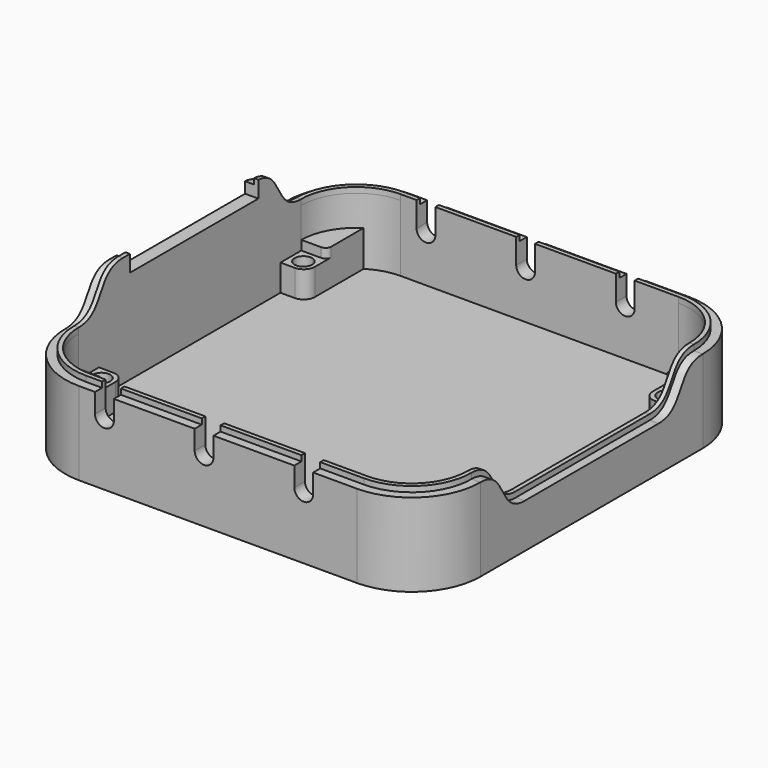
from build123d import *

# Parameters (mm, degrees)
SKETCH_W        = 75
SKETCH_H        = 75
PAD_DEPTH       = 15
SKETCH001_W     = 70.2
SKETCH001_H     = 70.2
POCKET_DEPTH    = 12
SKETCH002_W     = 4.6
SKETCH002_H     = 4.6
PAD001_DEPTH    = 4.8
SKETCH003_R     = 1.6
POCKET001_DEPTH = 7.801
SKETCH004_W     = 4.6
SKETCH004_H     = 10
PAD002_DEPTH    = 6.5
FILLET_R        = 10
FILLET001_R     = 12.4
PAD003_DEPTH    = 1
POCKET002_DEPTH = 75.001
PAD004_DEPTH    = 1.6
FILLET002_R     = 2
SKETCH008_W     = 4.6
SKETCH008_H     = 0.1
POCKET003_DEPTH = 1.7
FILLET003_R     = 1
POCKET004_DEPTH = 2.4
POCKET005_DEPTH = 1.6
PAD005_DEPTH    = 0.8
SKETCH012_W     = 29
SKETCH012_H     = 3
POCKET006_DEPTH = 2.4


with BuildPart() as part:
    # Sketch → Pad (new body)
    with BuildSketch(Plane.XY):
        with Locations((37.5, 37.5)):
            Rectangle(SKETCH_W, SKETCH_H)
    extrude(amount=PAD_DEPTH)

    # Sketch001 (on Face6 of Pad) → Pocket (cut)
    with BuildSketch(Plane.XY.offset(15)):
        with Locations((37.5, 37.5)):
            Rectangle(SKETCH001_W, SKETCH001_H)
    extrude(amount=-POCKET_DEPTH, mode=Mode.SUBTRACT)

    # Sketch002 (on Face11 of Pocket) → Pad001 (join)
    with BuildSketch(Plane.XY.offset(3)):
        with Locations((4.7, 60.3)):
            Rectangle(SKETCH002_W, SKETCH002_H)
        with Locations((70.3, 60.3)):
            Rectangle(SKETCH002_W, SKETCH002_H)
        with Locations((70.3, 14.7)):
            Rectangle(SKETCH002_W, SKETCH002_H)
        with Locations((4.7, 14.7)):
            Rectangle(SKETCH002_W, SKETCH002_H)
    extrude(amount=PAD001_DEPTH)

    # Sketch003 (on Face16 of Pad001) → Pocket001 (cut, through all)
    with BuildSketch(Plane.XY.offset(7.8)):
        with Locations((4.7, 60.3)):
            Circle(SKETCH003_R)
        with Locations((4.7, 14.7)):
            Circle(SKETCH003_R)
        with Locations((70.3, 14.7)):
            Circle(SKETCH003_R)
        with Locations((70.3, 60.3)):
            Circle(SKETCH003_R)
    extrude(amount=-POCKET001_DEPTH, mode=Mode.SUBTRACT)

    # Sketch004 (on Face19 of Pocket001) → Pad002 (join)
    with BuildSketch(Plane.XY.offset(3)):
        with Locations((70.3, 7.4)):
            Rectangle(SKETCH004_W, SKETCH004_H)
        with Locations((70.3, 67.6)):
            Rectangle(SKETCH004_W, SKETCH004_H)
        with Locations((4.7, 67.6)):
            Rectangle(SKETCH004_W, SKETCH004_H)
        with Locations((4.7, 7.4)):
            Rectangle(SKETCH004_W, SKETCH004_H)
    extrude(amount=PAD002_DEPTH)

    # Fillet
    fillet_edges = [part.edges().sort_by_distance(p)[0] for p in [
        (2.4, 72.6, 12.25),
        (72.6, 72.6, 12.25),
        (72.6, 2.4, 12.25),
        (2.4, 2.4, 12.25),
    ]]
    fillet(fillet_edges, radius=FILLET_R)

    # Fillet001
    fillet001_edges = [part.edges().sort_by_distance(p)[0] for p in [
        (75, 0, 7.5),
        (0, 75, 7.5),
        (0, 0, 7.5),
        (75, 75, 7.5),
    ]]
    fillet(fillet001_edges, radius=FILLET001_R)

    # Sketch005 (on Face1 of Fillet001) → Pad003 (join)
    with BuildSketch(Plane.XY.offset(15)):
        with BuildLine():
            Line((1.6, 62.6), (1.6, 12.4))
            ThreePointArc((1.6, 12.4), (4.763247, 4.763247), (12.4, 1.6))
            Line((12.4, 1.6), (62.6, 1.6))
            ThreePointArc((62.6, 1.6), (70.236753, 4.763247), (73.4, 12.4))
            Line((73.4, 12.4), (73.4, 62.6))
            ThreePointArc((73.4, 62.6), (70.236753, 70.236753), (62.6, 73.4))
            Line((62.6, 73.4), (12.4, 73.4))
            ThreePointArc((12.4, 73.4), (4.763247, 70.236753), (1.6, 62.6))
        make_face()
        with BuildLine():
            Line((2.4, 62.6), (2.4, 12.4))
            ThreePointArc((2.4, 12.4), (5.328932, 5.328932), (12.4, 2.4))
            Line((12.4, 2.4), (62.6, 2.4))
            ThreePointArc((62.6, 2.4), (69.671068, 5.328932), (72.6, 12.4))
            Line((72.6, 12.4), (72.6, 62.6))
            ThreePointArc((72.6, 62.6), (69.671068, 69.671068), (62.6, 72.6))
            Line((62.6, 72.6), (12.4, 72.6))
            ThreePointArc((12.4, 72.6), (5.328932, 69.671068), (2.4, 62.6))
        make_face(mode=Mode.SUBTRACT)
    extrude(amount=PAD003_DEPTH)

    # Sketch006 → Pocket002 (cut, through all)
    with BuildSketch(Plane.XZ):
        with BuildLine():
            ThreePointArc((18.7, 16), (17, 17.7), (15.3, 16))
            Line((15.3, 16), (15.3, 11.5))
            ThreePointArc((15.3, 11.5), (17, 9.8), (18.7, 11.5))
            Line((18.7, 16), (18.7, 11.5))
        make_face()
        with BuildLine():
            ThreePointArc((36.7, 16), (35, 17.7), (33.3, 16))
            Line((33.3, 16), (33.3, 11.5))
            ThreePointArc((33.3, 11.5), (35, 9.8), (36.7, 11.5))
            Line((36.7, 16), (36.7, 11.5))
        make_face()
        with BuildLine():
            ThreePointArc((54.7, 16), (53, 17.7), (51.3, 16))
            Line((51.3, 16), (51.3, 11.5))
            ThreePointArc((51.3, 11.5), (53, 9.8), (54.7, 11.5))
            Line((54.7, 16), (54.7, 11.5))
        make_face()
    extrude(amount=-POCKET002_DEPTH, mode=Mode.SUBTRACT)

    # Sketch007 → Pad004 (join)
    with BuildSketch(Plane.YZ):
        with BuildLine():
            add(Edge.make_bspline(
                [(62.6, 15), (59.6, 15), (57.6, 18.5), (55.6, 22), (52.6, 22)],
                knots=[0, 0, 0, 0, 0.5, 1, 1, 1, 1], degree=3))
            Line((52.6, 22), (22.4, 22))
            add(Edge.make_bspline(
                [(12.4, 15), (15.4, 15), (17.4, 18.5), (19.4, 22), (22.4, 22)],
                knots=[0, 0, 0, 0, 0.5, 1, 1, 1, 1], degree=3))
            Line((12.4, 15), (62.6, 15))
        make_face()
    extrude(amount=PAD004_DEPTH)

    # Fillet002
    fillet002_edges = [part.edges().sort_by_distance(p)[0] for p in [
        (7, 58, 5.4),
        (68, 58, 5.4),
        (68, 17, 5.4),
        (7, 17, 5.4),
    ]]
    fillet(fillet002_edges, radius=FILLET002_R)

    # Sketch008 (on Face40 of Fillet002) → Pocket003 (cut)
    with BuildSketch(Plane.XY.offset(9.5)):
        with Locations((4.7, 62.65)):
            Rectangle(SKETCH008_W, SKETCH008_H)
        with Locations((70.3, 62.65)):
            Rectangle(SKETCH008_W, SKETCH008_H)
        with Locations((70.3, 12.35)):
            Rectangle(SKETCH008_W, SKETCH008_H)
        with Locations((4.7, 12.35)):
            Rectangle(SKETCH008_W, SKETCH008_H)
    extrude(amount=-POCKET003_DEPTH, mode=Mode.SUBTRACT)

    # Fillet003
    fillet003_edges = [part.edges().sort_by_distance(p)[0] for p in [
        (68, 62.7, 8.65),
        (68, 12.3, 8.65),
        (7, 12.3, 8.65),
        (7, 62.7, 8.65),
    ]]
    fillet(fillet003_edges, radius=FILLET003_R)

    # Sketch009 (on Face92 of Fillet003) → Pocket004 (cut)
    with BuildSketch(Plane.YZ.offset(75)):
        with BuildLine():
            add(Edge.make_bspline(
                [(12.4, 16), (15.4, 16), (17.4, 12.5), (19.4, 9), (22.4, 9)],
                knots=[0, 0, 0, 0, 0.5, 1, 1, 1, 1], degree=3))
            Line((22.4, 9), (52.6, 9))
            add(Edge.make_bspline(
                [(62.6, 16), (59.6, 16), (57.6, 12.5), (55.6, 9), (52.6, 9)],
                knots=[0, 0, 0, 0, 0.5, 1, 1, 1, 1], degree=3))
            Line((62.6, 16), (12.4, 16))
        make_face()
    extrude(amount=-POCKET004_DEPTH, mode=Mode.SUBTRACT)

    # Sketch010 (on Face90 of Pocket004) → Pocket005 (cut)
    with BuildSketch(Plane.YZ.offset(75)):
        with BuildLine():
            add(Edge.make_bspline(
                [(12.4, 15), (15.4, 15), (17.4, 11.5), (19.4, 8), (22.4, 8)],
                knots=[0, 0, 0, 0, 0.5, 1, 1, 1, 1], degree=3))
            Line((12.4, 15), (12.4, 16))
            Line((12.4, 16), (62.6, 16))
            Line((62.6, 16), (62.6, 15))
            add(Edge.make_bspline(
                [(52.6, 8), (55.6, 8), (57.6, 11.5), (59.6, 15), (62.6, 15)],
                knots=[0, 0, 0, 0, 0.5, 1, 1, 1, 1], degree=3))
            Line((52.6, 8), (22.4, 8))
        make_face()
    extrude(amount=-POCKET005_DEPTH, mode=Mode.SUBTRACT)

    # Sketch011 (on Face23 of Pocket005) → Pad005 (join)
    with BuildSketch(Plane.YZ.offset(2.4)):
        with BuildLine():
            Line((62.6, 16), (12.4, 16))
            add(Edge.make_bspline(
                [(12.4, 16), (15.4, 16), (17.4, 19.5), (19.4, 23), (22.4, 23)],
                knots=[0, 0, 0, 0, 0.5, 1, 1, 1, 1], degree=3))
            Line((22.4, 23), (52.6, 23))
            add(Edge.make_bspline(
                [(62.6, 16), (59.6, 16), (57.6, 19.5), (55.6, 23), (52.6, 23)],
                knots=[0, 0, 0, 0, 0.5, 1, 1, 1, 1], degree=3))
        make_face()
    extrude(amount=-PAD005_DEPTH)

    # Sketch012 → Pocket006 (cut)
    with BuildSketch(Plane.YZ):
        with Locations((38.5, 21.5)):
            Rectangle(SKETCH012_W, SKETCH012_H)
    extrude(amount=POCKET006_DEPTH, mode=Mode.SUBTRACT)


solid = part.part
